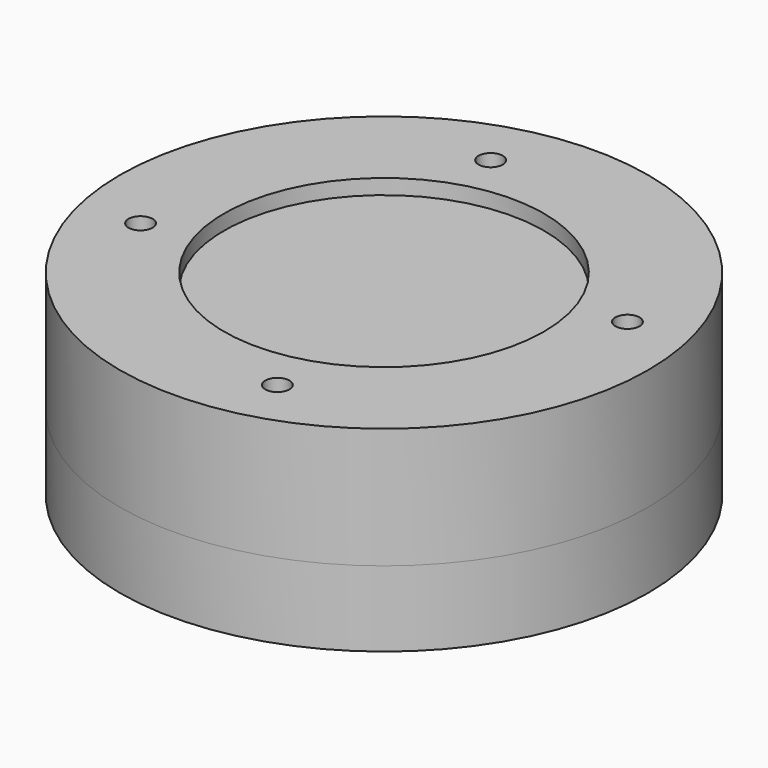
from build123d import *

# Parameters (mm, degrees)
F0_R      = 35
F1_DEPTH  = 16
F2_R      = 21.2
F3_DEPTH  = 2
F4_R      = 2.05
F5_DEPTH  = 2.2
F6_R      = 1.6
F7_DEPTH  = 16
F8_R      = 3
F9_DEPTH  = 14
F10_R     = 35
F11_DEPTH = 10
F12_R     = 2.05
F13_DEPTH = 2.2
F14_R     = 25
F15_DEPTH = 3
F16_R     = 11
F17_DEPTH = 6
F18_R     = 3.5
F19_DEPTH = 5
F20_R     = 2
F21_DEPTH = 5
F22_R     = 7.5
F23_DEPTH = 1


with BuildPart() as f1:
    # F0 (on Top) → F1 (new body)
    with BuildSketch(Plane.XY):
        Circle(F0_R)
    extrude(amount=F1_DEPTH)

    # F2 (on face) → F3 (cut)
    with BuildSketch(Plane.XY.offset(16)):
        Circle(F2_R)
    extrude(amount=-F3_DEPTH, mode=Mode.SUBTRACT)

    # F4 (on face) → F5 (cut)
    with BuildSketch(Plane(origin=(0, 0, 0), x_dir=(1, 0, 0), z_dir=(0, 0, -1))):
        with Locations((0, 30)):
            Circle(F4_R)
        with Locations((-15, 25.9807621135)):
            Circle(F4_R)
        with Locations((-25.9807621135, 15)):
            Circle(F4_R)
        with Locations((-30, 0)):
            Circle(F4_R)
        with Locations((-25.9807621135, -15)):
            Circle(F4_R)
        with Locations((-15, -25.9807621135)):
            Circle(F4_R)
        with Locations((0, -30)):
            Circle(F4_R)
        with Locations((15, -25.9807621135)):
            Circle(F4_R)
        with Locations((25.9807621135, -15)):
            Circle(F4_R)
        with Locations((30, 0)):
            Circle(F4_R)
        with Locations((25.9807621135, 15)):
            Circle(F4_R)
        with Locations((15, 25.9807621135)):
            Circle(F4_R)
    extrude(amount=-F5_DEPTH, mode=Mode.SUBTRACT)

    # F6 (on face) → F7 (cut, through all)
    with BuildSketch(Plane(origin=(0, 0, 0), x_dir=(1, 0, 0), z_dir=(0, 0, -1))):
        with Locations((7.1175237403, 26.5629602229)):
            Circle(F6_R)
        with Locations((-26.5629602229, 7.1175237403)):
            Circle(F6_R)
        with Locations((-7.1175237403, -26.5629602229)):
            Circle(F6_R)
        with Locations((26.5629602229, -7.1175237403)):
            Circle(F6_R)
    extrude(amount=-F7_DEPTH, mode=Mode.SUBTRACT)

    # F8 (on face) → F9 (cut)
    with BuildSketch(Plane(origin=(0, 0, 0), x_dir=(1, 0, 0), z_dir=(0, 0, -1))):
        with Locations((7.1175237403, 26.5629602229)):
            Circle(F8_R)
        with Locations((-26.5629602229, 7.1175237403)):
            Circle(F8_R)
        with Locations((-7.1175237403, -26.5629602229)):
            Circle(F8_R)
        with Locations((26.5629602229, -7.1175237403)):
            Circle(F8_R)
    extrude(amount=-F9_DEPTH, mode=Mode.SUBTRACT)


with BuildPart() as f11:
    # F10 (on face) → F11 (new body)
    with BuildSketch(Plane(origin=(0, 0, 0), x_dir=(1, 0, 0), z_dir=(0, 0, -1))):
        Circle(F10_R)
    extrude(amount=F11_DEPTH)

    # F12 (on face) → F13 (cut)
    with BuildSketch(Plane.XY):
        with Locations((-30.0843753666, 0.0252974226)):
            Circle(F12_R)
        with Locations((15.0640958939, 26.0411846131)):
            Circle(F12_R)
        with Locations((26.0664820357, 15.0202794727)):
            Circle(F12_R)
        with Locations((30.0843753666, -0.0252974226)):
            Circle(F12_R)
        with Locations((26.0411846131, -15.0640958939)):
            Circle(F12_R)
        with Locations((15.0202794727, -26.0664820357)):
            Circle(F12_R)
        with Locations((-0.0252974226, -30.0843753666)):
            Circle(F12_R)
        with Locations((-15.0640958939, -26.0411846131)):
            Circle(F12_R)
        with Locations((-26.0664820357, -15.0202794727)):
            Circle(F12_R)
        with Locations((-26.0411846131, 15.0640958939)):
            Circle(F12_R)
        with Locations((-15.0202794727, 26.0664820357)):
            Circle(F12_R)
        with Locations((0.0252974226, 30.0843753666)):
            Circle(F12_R)
    extrude(amount=-F13_DEPTH, mode=Mode.SUBTRACT)

    # F14 (on face) → F15 (cut)
    with BuildSketch(Plane.XY):
        Circle(F14_R)
    extrude(amount=-F15_DEPTH, mode=Mode.SUBTRACT)

    # F16 (on face) → F17 (cut)
    with BuildSketch(Plane.XY.offset(-3)):
        Circle(F16_R)
    extrude(amount=-F17_DEPTH, mode=Mode.SUBTRACT)

    # F18 (on face) → F19 (cut)
    with BuildSketch(Plane.XY):
        with Locations((-8.161380887, 29.1658435017)):
            Circle(F18_R)
    extrude(amount=-F19_DEPTH, mode=Mode.SUBTRACT)

    # F20 (on face) → F21 (cut, through all)
    with BuildSketch(Plane.XY.offset(-5)):
        with Locations((-8.161380887, 29.1658435017)):
            Circle(F20_R)
    extrude(amount=-F21_DEPTH, mode=Mode.SUBTRACT)

    # F22 (on face) → F23 (cut, through all)
    with BuildSketch(Plane.XY.offset(-9)):
        Circle(F22_R)
    extrude(amount=-F23_DEPTH, mode=Mode.SUBTRACT)


solid = Compound([f1.part, f11.part])
